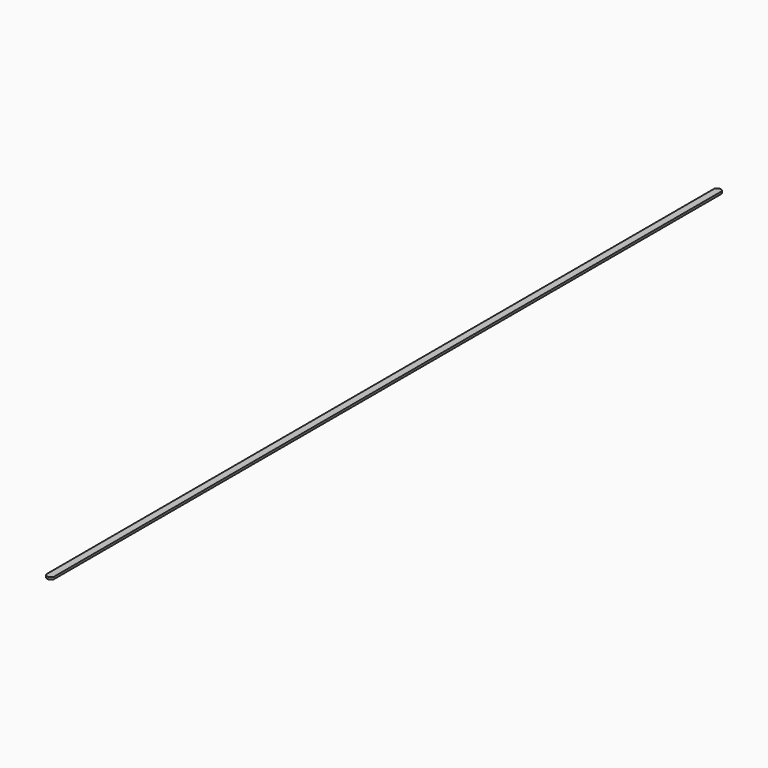
from build123d import *

# Parameters (mm, degrees)
BOX005_W     = 1
BOX005_H     = 115
BOX005_DEPTH = 0.3
FILLET007_R  = 0.45
FILLET008_R  = 0.45
FILLET011_R  = 0.45
FILLET012_R  = 0.45


with BuildPart() as part:
    # Box005 → Box005 (new body)
    with BuildSketch(Plane(origin=(78, -118, 9.9), x_dir=(1, 0, 0), z_dir=(0, 0, 1))):
        with Locations((0.5, 57.5)):
            Rectangle(BOX005_W, BOX005_H)
    extrude(amount=BOX005_DEPTH)

    # Fillet007
    fillet007_edges = [part.edges().sort_by_distance(p)[0] for p in [
        (78, -3, 10.05),
    ]]
    fillet(fillet007_edges, radius=FILLET007_R)

    # Fillet008
    fillet008_edges = [part.edges().sort_by_distance(p)[0] for p in [
        (79, -3, 10.05),
    ]]
    fillet(fillet008_edges, radius=FILLET008_R)

    # Fillet011
    fillet011_edges = [part.edges().sort_by_distance(p)[0] for p in [
        (79, -118, 10.05),
    ]]
    fillet(fillet011_edges, radius=FILLET011_R)

    # Fillet012
    fillet012_edges = [part.edges().sort_by_distance(p)[0] for p in [
        (78, -118, 10.05),
    ]]
    fillet(fillet012_edges, radius=FILLET012_R)


solid = part.part
